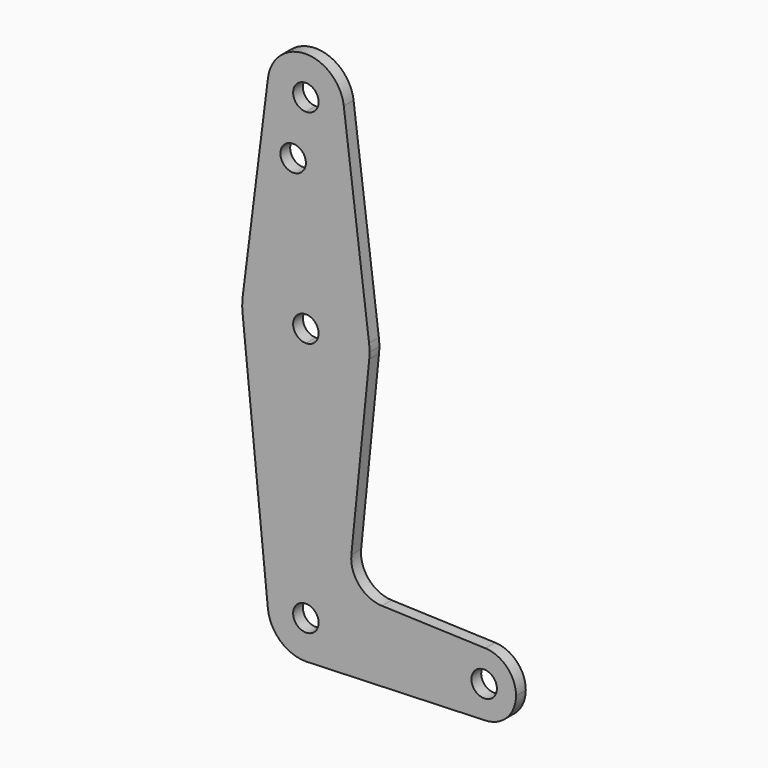
from build123d import *

# Parameters (mm, degrees)
F0_R     = 3.175
F1_DEPTH = 3.048


with BuildPart() as f1:
    # F0 (on Front) → F1 (new body)
    with BuildSketch(Plane.XZ):
        with BuildLine():
            Line((0.6773435479, -9.500885786), (0, -9.525))
            ThreePointArc((0, -9.525), (0.3388863295, -9.5189695375), (0.6773435479, -9.500885786))
        make_face()
        with BuildLine():
            ThreePointArc((18.9676000005, 8.8532337108), (13.2611998974, 11.5713591498), (11.3411865923, 17.5933818124))
            Line((11.3411865923, 17.5933818124), (10.4932062399, 9.1560838367))
            Line((10.4932062399, 9.1560838367), (18.9676000005, 8.8532337108))
        make_face()
        with BuildLine():
            ThreePointArc((0, 104.775), (6.7351920908, 107.5648079092), (9.525, 114.3))
            ThreePointArc((9.525, 114.3), (9.5063048942, 114.896483242), (9.4502929642, 115.490625))
            ThreePointArc((9.4502929642, 115.490625), (0, 123.825), (-9.4502929642, 115.490625))
            ThreePointArc((-9.4502929642, 115.490625), (-7.14375, 107.9998046905), (0, 104.775))
        make_face()
        with BuildLine():
            ThreePointArc((3.175, 114.3), (2.2450640303, 112.0549359697), (0, 111.125))
            ThreePointArc((0, 111.125), (-2.2450640303, 116.5450640303), (3.175, 114.3))
        make_face(mode=Mode.SUBTRACT)
        with BuildLine():
            ThreePointArc((9.4502929642, 115.490625), (9.5063048942, 114.896483242), (9.525, 114.3))
            ThreePointArc((9.525, 114.3), (6.7351920908, 107.5648079092), (0, 104.775))
            Line((0, 104.775), (0, 99.9011546373))
            Line((0, 99.9011546373), (0, 79.375))
            ThreePointArc((0, 79.375), (10.5003255158, 75.40625), (15.7504882737, 65.484375))
            Line((15.7504882737, 65.484375), (9.4502929642, 115.490625))
        make_face()
        with BuildLine():
            ThreePointArc((52.3875, 0), (50.1620069047, 5.5115227815), (44.7334821429, 7.9324362036))
            ThreePointArc((44.7334821429, 7.9324362036), (38.9384772185, 5.7120069047), (36.5125, 0))
            ThreePointArc((36.5125, 0), (38.9380895153, -5.7116327839), (44.7324052746, -7.9324746146))
            ThreePointArc((44.7324052746, -7.9324746146), (50.1616327839, -5.5119104847), (52.3875, 0))
        make_face()
        with BuildLine():
            ThreePointArc((47.625, 0), (44.45, -3.175), (41.275, 0))
            ThreePointArc((41.275, 0), (44.45, 3.175), (47.625, 0))
        make_face(mode=Mode.SUBTRACT)
        with BuildLine():
            Line((0, 99.9011546373), (0, 104.775))
            ThreePointArc((0, 104.775), (-7.14375, 107.9998046905), (-9.4502929642, 115.490625))
            Line((-9.4502929642, 115.490625), (-15.7504882737, 65.484375))
            ThreePointArc((-15.7504882737, 65.484375), (-10.5003255158, 75.40625), (0, 79.375))
            Line((0, 79.375), (0, 99.9011546373))
        make_face()
        with Locations((-3.175, 99.9011546373)):
            Circle(F0_R, mode=Mode.SUBTRACT)
        with BuildLine():
            ThreePointArc((15.875, 63.5), (15.8438414904, 64.4941387366), (15.7504882737, 65.484375))
            ThreePointArc((15.7504882737, 65.484375), (10.5003255158, 75.40625), (0, 79.375))
            Line((0, 79.375), (0, 66.675))
            ThreePointArc((0, 66.675), (2.2450640303, 65.7450640303), (3.175, 63.5))
            ThreePointArc((3.175, 63.5), (2.2450640303, 61.2549359697), (0, 60.325))
            Line((0, 60.325), (0, 47.625))
            ThreePointArc((0, 47.625), (10.6492737428, 51.7267849017), (15.7954255641, 61.9125))
            ThreePointArc((15.7954255641, 61.9125), (15.8550939106, 62.7052534459), (15.875, 63.5))
        make_face()
        with BuildLine():
            ThreePointArc((0, 79.375), (-10.5003255158, 75.40625), (-15.7504882737, 65.484375))
            ThreePointArc((-15.7504882737, 65.484375), (-15.8737438155, 63.6997054867), (-15.7954255641, 61.9125))
            ThreePointArc((-15.7954255641, 61.9125), (-10.6492737428, 51.7267849017), (0, 47.625))
            Line((0, 47.625), (0, 60.325))
            ThreePointArc((0, 60.325), (-3.175, 63.5), (0, 66.675))
            Line((0, 66.675), (0, 79.375))
        make_face()
        with BuildLine():
            ThreePointArc((0, 47.625), (-10.6492737428, 51.7267849017), (-15.7954255641, 61.9125))
            Line((-15.7954255641, 61.9125), (-9.4772553384, -0.9525))
            ThreePointArc((-9.4772553384, -0.9525), (-7.063929059, 6.3895642457), (0, 9.525))
            Line((0, 9.525), (0, 9.5310804347))
            Line((0, 9.5310804347), (0, 47.625))
        make_face()
        with BuildLine():
            ThreePointArc((9.525, 0), (6.9705567315, -6.4912990883), (0.6773435479, -9.500885786))
            Line((0.6773435479, -9.500885786), (44.7324052746, -7.9324746146))
            ThreePointArc((44.7324052746, -7.9324746146), (38.9380895153, -5.7116327839), (36.5125, 0))
            Line((36.5125, 0), (9.5729851903, 0))
            Line((9.5729851903, 0), (9.525, 0))
        make_face()
        with BuildLine():
            Line((44.7334821429, 7.9324362036), (18.9676000005, 8.8532337108))
            Line((18.9676000005, 8.8532337108), (10.4932062399, 9.1560838367))
            Line((10.4932062399, 9.1560838367), (9.5729851903, 0))
            Line((9.5729851903, 0), (36.5125, 0))
            ThreePointArc((36.5125, 0), (38.9384772185, 5.7120069047), (44.7334821429, 7.9324362036))
        make_face()
        with BuildLine():
            Line((11.3411865923, 17.5933818124), (15.7954255641, 61.9125))
            ThreePointArc((15.7954255641, 61.9125), (10.6492737428, 51.7267849017), (0, 47.625))
            Line((0, 47.625), (0, 9.5310804347))
            Line((0, 9.5310804347), (0.3401783887, 9.5189234509))
            Line((0.3401783887, 9.5189234509), (10.4932062399, 9.1560838367))
            Line((10.4932062399, 9.1560838367), (11.3411865923, 17.5933818124))
        make_face()
        with BuildLine():
            ThreePointArc((0, 9.525), (-7.063929059, 6.3895642457), (-9.4772553384, -0.9525))
            ThreePointArc((-9.4772553384, -0.9525), (-6.3895642457, -7.063929059), (0, -9.525))
            Line((0, -9.525), (0.6773435479, -9.500885786))
            ThreePointArc((0.6773435479, -9.500885786), (6.9705567315, -6.4912990883), (9.525, 0))
            Line((9.525, 0), (3.175, 0))
            ThreePointArc((3.175, 0), (-2.2450640303, -2.2450640303), (0, 3.175))
            Line((0, 3.175), (0, 9.525))
        make_face()
        with BuildLine():
            ThreePointArc((0.3401783887, 9.5189234509), (0.1701163283, 9.5234807416), (0, 9.525))
            Line((0, 9.525), (0, 3.175))
            ThreePointArc((0, 3.175), (2.2450640303, 2.2450640303), (3.175, 0))
            Line((3.175, 0), (9.525, 0))
            ThreePointArc((9.525, 0), (6.8544082222, 6.6138274035), (0.3401783887, 9.5189234509))
        make_face()
        with BuildLine():
            Line((9.5729851903, 0), (10.4932062399, 9.1560838367))
            Line((10.4932062399, 9.1560838367), (0.3401783887, 9.5189234509))
            ThreePointArc((0.3401783887, 9.5189234509), (6.8544082222, 6.6138274035), (9.525, 0))
            Line((9.525, 0), (9.5729851903, 0))
        make_face()
    extrude(amount=F1_DEPTH)


solid = f1.part
